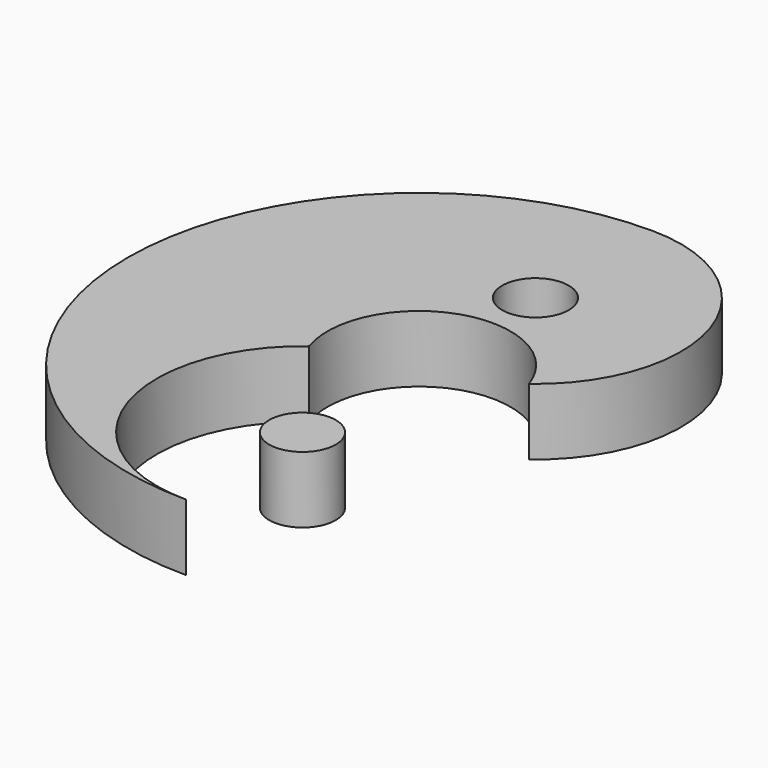
from build123d import *

# Parameters (mm, degrees)
F0_R     = 4
F1_DEPTH = 8


with BuildPart() as f1:
    # F0 (on Top) → F1 (new body)
    with BuildSketch(Plane.XY):
        with BuildLine():
            ThreePointArc((10.442613, 3.457143), (16.613248, 23), (0, 35))
            ThreePointArc((0, 35), (-35, 0), (0, -35))
            ThreePointArc((0, -35), (-16.613248, -23), (-10.442613, -3.457143))
            ThreePointArc((-10.442613, -3.457143), (-3.457143, 10.442613), (10.442613, 3.457143))
        make_face()
        with Locations((0, 17.5)):
            Circle(F0_R, mode=Mode.SUBTRACT)
        with Locations((0, -17.5)):
            Circle(F0_R)
    extrude(amount=F1_DEPTH)


solid = f1.part
